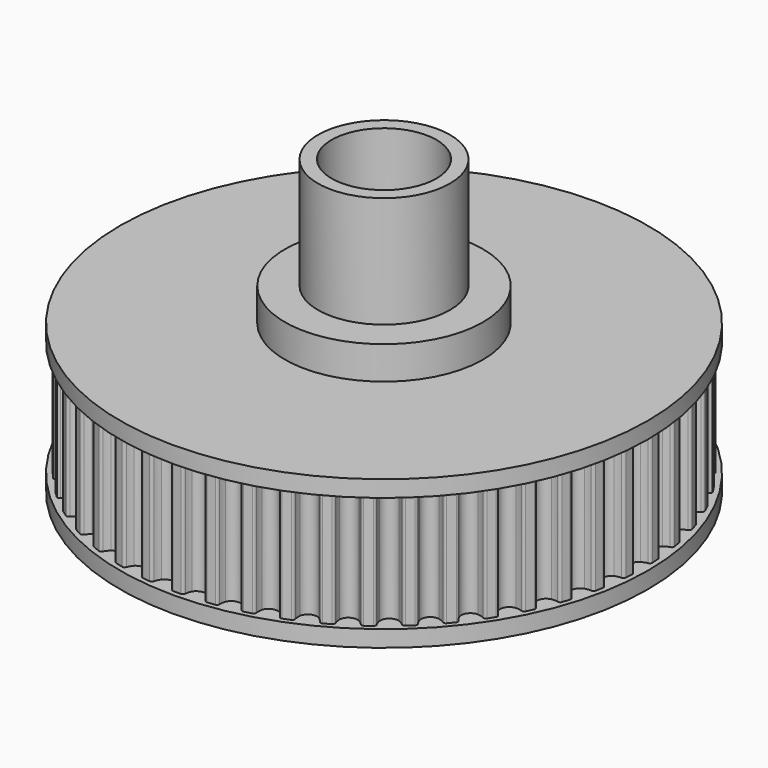
from build123d import *

# Parameters (mm, degrees)
PAD087_DEPTH     = 8
SKETCHBASE003_R  = 16
PADBASE003_DEPTH = 1
SKETCHTOP003_R   = 16
PADTOP003_DEPTH  = 1
SKETCH238_R      = 3.175
POCKET148_DEPTH  = 9.001
SKETCH239_R      = 6
PAD088_DEPTH     = 2
SKETCH237_R      = 4
PAD089_DEPTH     = 6.75
SKETCH240_R      = 7.5
PAD090_DEPTH     = 1.6
SKETCH241_R      = 3.175
POCKET149_DEPTH  = 19.351


with BuildPart() as part:
    # SketchGear003 → Pad087 (new body)
    with BuildSketch(Plane.XY):
        with BuildLine():
            ThreePointArc((15.661494, -0.75), (15.61756, -0.643934), (15.511494, -0.6))
            ThreePointArc((15.511494, -0.6), (15.332205, -0.544218), (15.161494, -0.466025))
            ThreePointArc((15.161494, -0.466025), (14.911494, 0), (15.161494, 0.466025))
            ThreePointArc((15.161494, 0.466025), (15.332205, 0.544218), (15.511494, 0.6))
            ThreePointArc((15.511494, 0.6), (15.61756, 0.643934), (15.661494, 0.75))
            Line((15.661494, 0.75), (15.631999, 1.21882))
            ThreePointArc((15.631999, 1.21882), (15.575118, 1.318543), (15.464381, 1.348837))
            ThreePointArc((15.464381, 1.348837), (15.279515, 1.381709), (15.10035, 1.437888))
            ThreePointArc((15.10035, 1.437888), (14.793913, 1.868906), (14.983533, 2.36259))
            ThreePointArc((14.983533, 2.36259), (15.143098, 2.461561), (15.313982, 2.539375))
            ThreePointArc((15.313982, 2.539375), (15.413705, 2.596256), (15.443999, 2.706992))
            Line((15.443999, 2.706992), (15.355977, 3.168418))
            ThreePointArc((15.355977, 3.168418), (15.287046, 3.260226), (15.173386, 3.276402))
            ThreePointArc((15.173386, 3.276402), (14.985857, 3.285844), (14.801064, 3.319126))
            ThreePointArc((14.801064, 3.319126), (14.443022, 3.708338), (14.569272, 4.221895))
            ThreePointArc((14.569272, 4.221895), (14.715174, 4.340084), (14.874958, 4.438702))
            ThreePointArc((14.874958, 4.438702), (14.966766, 4.507633), (14.982942, 4.621293))
            Line((14.982942, 4.621293), (14.837783, 5.068048))
            ThreePointArc((14.837783, 5.068048), (14.757888, 5.150493), (14.643097, 5.152296))
            ThreePointArc((14.643097, 5.152296), (14.455864, 5.138161), (14.268356, 5.148019))
            ThreePointArc((14.268356, 5.148019), (13.864357, 5.489287), (13.925246, 6.014618))
            ThreePointArc((13.925246, 6.014618), (14.055184, 6.150162), (14.201348, 6.268028))
            ThreePointArc((14.201348, 6.268028), (14.283792, 6.347922), (14.285596, 6.462713))
            Line((14.285596, 6.462713), (14.085587, 6.887752))
            ThreePointArc((14.085587, 6.887752), (13.99599, 6.959533), (13.881878, 6.946935))
            ThreePointArc((13.881878, 6.946935), (13.697893, 6.909445), (13.510628, 6.895724))
            ThreePointArc((13.510628, 6.895724), (13.067042, 7.183667), (13.061609, 7.712487))
            ThreePointArc((13.061609, 7.712487), (13.173535, 7.863248), (13.303774, 7.998503))
            ThreePointArc((13.303774, 7.998503), (13.375555, 8.088101), (13.362957, 8.202212))
            Line((13.362957, 8.202212), (13.111254, 8.598833))
            ThreePointArc((13.111254, 8.598833), (13.013367, 8.658818), (12.901734, 8.632017))
            ThreePointArc((12.901734, 8.632017), (12.723898, 8.571763), (12.539829, 8.53468))
            ThreePointArc((12.539829, 8.53468), (12.063652, 8.764756), (11.991984, 9.288725))
            ThreePointArc((11.991984, 9.288725), (12.084132, 9.452325), (12.196391, 9.602838))
            ThreePointArc((12.196391, 9.602838), (12.256377, 9.700725), (12.229576, 9.812358))
            Line((12.229576, 9.812358), (11.930148, 10.174304))
            ThreePointArc((11.930148, 10.174304), (11.825515, 10.221548), (11.718121, 10.180967))
            ThreePointArc((11.718121, 10.180967), (11.549239, 10.098899), (11.37127, 10.039039))
            ThreePointArc((11.37127, 10.039039), (10.870012, 10.20762), (10.733237, 10.718475))
            ThreePointArc((10.733237, 10.718475), (10.804154, 10.892334), (10.896664, 11.05573))
            ThreePointArc((10.896664, 11.05573), (10.943908, 11.160363), (10.903328, 11.267757))
            Line((10.903328, 11.267757), (10.560897, 11.589321))
            ThreePointArc((10.560897, 11.589321), (10.451167, 11.623078), (10.349707, 11.569357))
            ThreePointArc((10.349707, 11.569357), (10.192442, 11.46677), (10.023379, 11.385076))
            ThreePointArc((10.023379, 11.385076), (9.504944, 11.489504), (9.305221, 11.979188))
            ThreePointArc((9.305221, 11.979188), (9.353789, 12.160565), (9.425091, 12.334266))
            ThreePointArc((9.425091, 12.334266), (9.458848, 12.443996), (9.405127, 12.545457))
            Line((9.405127, 12.545457), (9.025094, 12.821567))
            ThreePointArc((9.025094, 12.821567), (8.911999, 12.841305), (8.818071, 12.775292))
            ThreePointArc((8.818071, 12.775292), (8.674904, 12.653803), (8.517413, 12.551564))
            ThreePointArc((8.517413, 12.551564), (7.989978, 12.590191), (7.730457, 13.050982))
            ThreePointArc((7.730457, 13.050982), (7.755908, 13.237015), (7.804878, 13.418284))
            ThreePointArc((7.804878, 13.418284), (7.824616, 13.531379), (7.758602, 13.625307))
            Line((7.758602, 13.625307), (7.34696, 13.851609))
            ThreePointArc((7.34696, 13.851609), (7.232283, 13.857017), (7.147369, 13.779752))
            ThreePointArc((7.147369, 13.779752), (7.020558, 13.641278), (6.877123, 13.520106))
            ThreePointArc((6.877123, 13.520106), (6.349005, 13.492323), (6.033778, 13.916954))
            ThreePointArc((6.033778, 13.916954), (6.035713, 14.104711), (6.061577, 14.290687))
            ThreePointArc((6.061577, 14.290687), (6.066985, 14.405365), (5.98972, 14.490278))
            Line((5.98972, 14.490278), (5.55296, 14.663203))
            ThreePointArc((5.55296, 14.663203), (5.438509, 14.654196), (5.363949, 14.566898))
            ThreePointArc((5.363949, 14.566898), (5.255494, 14.413621), (5.128376, 14.275428))
            ThreePointArc((5.128376, 14.275428), (4.607905, 14.181674), (4.241943, 14.563448))
            ThreePointArc((4.241943, 14.563448), (4.22033, 14.749966), (4.222681, 14.937718))
            ThreePointArc((4.222681, 14.937718), (4.213674, 15.052169), (4.126376, 15.126729))
            Line((4.126376, 15.126729), (3.671387, 15.24355))
            ThreePointArc((3.671387, 15.24355), (3.558967, 15.220269), (3.495937, 15.124314))
            ThreePointArc((3.495937, 15.124314), (3.407547, 14.958654), (3.298752, 14.805618))
            ThreePointArc((3.298752, 14.805618), (2.794135, 14.647371), (2.38321, 14.980267))
            ThreePointArc((2.38321, 14.980267), (2.338391, 15.162606), (2.317192, 15.349172))
            ThreePointArc((2.317192, 15.349172), (2.293911, 15.461592), (2.197956, 15.524622))
            Line((2.197956, 15.524622), (1.731913, 15.583497))
            ThreePointArc((1.731913, 15.583497), (1.623298, 15.54631), (1.572791, 15.443212))
            ThreePointArc((1.572791, 15.443212), (1.505861, 15.267779), (1.417104, 15.102315))
            ThreePointArc((1.417104, 15.102315), (0.9363, 14.88207), (0.486892, 15.160839))
            ThreePointArc((0.486892, 15.160839), (0.419573, 15.336122), (0.375159, 15.51856))
            ThreePointArc((0.375159, 15.51856), (0.337971, 15.627176), (0.234873, 15.677683))
            Line((0.234873, 15.677683), (-0.234873, 15.677683))
            ThreePointArc((-0.234873, 15.677683), (-0.337971, 15.627176), (-0.375159, 15.51856))
            ThreePointArc((-0.375159, 15.51856), (-0.419573, 15.336122), (-0.486892, 15.160839))
            ThreePointArc((-0.486892, 15.160839), (-0.9363, 14.88207), (-1.417104, 15.102315))
            ThreePointArc((-1.417104, 15.102315), (-1.505861, 15.267779), (-1.572791, 15.443212))
            ThreePointArc((-1.572791, 15.443212), (-1.623298, 15.54631), (-1.731913, 15.583497))
            Line((-1.731913, 15.583497), (-2.197956, 15.524622))
            ThreePointArc((-2.197956, 15.524622), (-2.293911, 15.461592), (-2.317192, 15.349172))
            ThreePointArc((-2.317192, 15.349172), (-2.338391, 15.162606), (-2.38321, 14.980267))
            ThreePointArc((-2.38321, 14.980267), (-2.794135, 14.647371), (-3.298752, 14.805618))
            ThreePointArc((-3.298752, 14.805618), (-3.407547, 14.958654), (-3.495937, 15.124314))
            ThreePointArc((-3.495937, 15.124314), (-3.558967, 15.220269), (-3.671387, 15.24355))
            Line((-3.671387, 15.24355), (-4.126376, 15.126729))
            ThreePointArc((-4.126376, 15.126729), (-4.213674, 15.052169), (-4.222681, 14.937718))
            ThreePointArc((-4.222681, 14.937718), (-4.22033, 14.749966), (-4.241943, 14.563448))
            ThreePointArc((-4.241943, 14.563448), (-4.607905, 14.181674), (-5.128376, 14.275428))
            ThreePointArc((-5.128376, 14.275428), (-5.255494, 14.413621), (-5.363949, 14.566898))
            ThreePointArc((-5.363949, 14.566898), (-5.438509, 14.654196), (-5.55296, 14.663203))
            Line((-5.55296, 14.663203), (-5.98972, 14.490278))
            ThreePointArc((-5.98972, 14.490278), (-6.066985, 14.405365), (-6.061577, 14.290687))
            ThreePointArc((-6.061577, 14.290687), (-6.035713, 14.104711), (-6.033778, 13.916954))
            ThreePointArc((-6.033778, 13.916954), (-6.349005, 13.492323), (-6.877123, 13.520106))
            ThreePointArc((-6.877123, 13.520106), (-7.020558, 13.641278), (-7.147369, 13.779752))
            ThreePointArc((-7.147369, 13.779752), (-7.232283, 13.857017), (-7.34696, 13.851609))
            Line((-7.34696, 13.851609), (-7.758602, 13.625307))
            ThreePointArc((-7.758602, 13.625307), (-7.824616, 13.531379), (-7.804878, 13.418284))
            ThreePointArc((-7.804878, 13.418284), (-7.755908, 13.237015), (-7.730457, 13.050982))
            ThreePointArc((-7.730457, 13.050982), (-7.989978, 12.590191), (-8.517413, 12.551564))
            ThreePointArc((-8.517413, 12.551564), (-8.674904, 12.653803), (-8.818071, 12.775292))
            ThreePointArc((-8.818071, 12.775292), (-8.911999, 12.841305), (-9.025094, 12.821567))
            Line((-9.025094, 12.821567), (-9.405127, 12.545457))
            ThreePointArc((-9.405127, 12.545457), (-9.458848, 12.443996), (-9.425091, 12.334266))
            ThreePointArc((-9.425091, 12.334266), (-9.353789, 12.160565), (-9.305221, 11.979188))
            ThreePointArc((-9.305221, 11.979188), (-9.504944, 11.489504), (-10.023379, 11.385076))
            ThreePointArc((-10.023379, 11.385076), (-10.192442, 11.46677), (-10.349707, 11.569357))
            ThreePointArc((-10.349707, 11.569357), (-10.451167, 11.623078), (-10.560897, 11.589321))
            Line((-10.560897, 11.589321), (-10.903328, 11.267757))
            ThreePointArc((-10.903328, 11.267757), (-10.943908, 11.160363), (-10.896664, 11.05573))
            ThreePointArc((-10.896664, 11.05573), (-10.804154, 10.892334), (-10.733237, 10.718475))
            ThreePointArc((-10.733237, 10.718475), (-10.870012, 10.20762), (-11.37127, 10.039039))
            ThreePointArc((-11.37127, 10.039039), (-11.549239, 10.098899), (-11.718121, 10.180967))
            ThreePointArc((-11.718121, 10.180967), (-11.825515, 10.221548), (-11.930148, 10.174304))
            Line((-11.930148, 10.174304), (-12.229576, 9.812358))
            ThreePointArc((-12.229576, 9.812358), (-12.256377, 9.700725), (-12.196391, 9.602838))
            ThreePointArc((-12.196391, 9.602838), (-12.084132, 9.452325), (-11.991984, 9.288725))
            ThreePointArc((-11.991984, 9.288725), (-12.063652, 8.764756), (-12.539829, 8.53468))
            ThreePointArc((-12.539829, 8.53468), (-12.723898, 8.571763), (-12.901734, 8.632017))
            ThreePointArc((-12.901734, 8.632017), (-13.013367, 8.658818), (-13.111254, 8.598833))
            Line((-13.111254, 8.598833), (-13.362957, 8.202212))
            ThreePointArc((-13.362957, 8.202212), (-13.375555, 8.088101), (-13.303774, 7.998503))
            ThreePointArc((-13.303774, 7.998503), (-13.173535, 7.863248), (-13.061609, 7.712487))
            ThreePointArc((-13.061609, 7.712487), (-13.067042, 7.183667), (-13.510628, 6.895724))
            ThreePointArc((-13.510628, 6.895724), (-13.697893, 6.909445), (-13.881878, 6.946935))
            ThreePointArc((-13.881878, 6.946935), (-13.99599, 6.959533), (-14.085587, 6.887752))
            Line((-14.085587, 6.887752), (-14.285596, 6.462713))
            ThreePointArc((-14.285596, 6.462713), (-14.283792, 6.347922), (-14.201348, 6.268028))
            ThreePointArc((-14.201348, 6.268028), (-14.055184, 6.150162), (-13.925246, 6.014618))
            ThreePointArc((-13.925246, 6.014618), (-13.864357, 5.489287), (-14.268356, 5.148019))
            ThreePointArc((-14.268356, 5.148019), (-14.455864, 5.138161), (-14.643097, 5.152296))
            ThreePointArc((-14.643097, 5.152296), (-14.757888, 5.150493), (-14.837783, 5.068048))
            Line((-14.837783, 5.068048), (-14.982942, 4.621293))
            ThreePointArc((-14.982942, 4.621293), (-14.966766, 4.507633), (-14.874958, 4.438702))
            ThreePointArc((-14.874958, 4.438702), (-14.715174, 4.340084), (-14.569272, 4.221895))
            ThreePointArc((-14.569272, 4.221895), (-14.443022, 3.708338), (-14.801064, 3.319126))
            ThreePointArc((-14.801064, 3.319126), (-14.985857, 3.285844), (-15.173386, 3.276402))
            ThreePointArc((-15.173386, 3.276402), (-15.287046, 3.260226), (-15.355977, 3.168418))
            Line((-15.355977, 3.168418), (-15.443999, 2.706992))
            ThreePointArc((-15.443999, 2.706992), (-15.413705, 2.596256), (-15.313982, 2.539375))
            ThreePointArc((-15.313982, 2.539375), (-15.143098, 2.461561), (-14.983533, 2.36259))
            ThreePointArc((-14.983533, 2.36259), (-14.793913, 1.868906), (-15.10035, 1.437888))
            ThreePointArc((-15.10035, 1.437888), (-15.279515, 1.381709), (-15.464381, 1.348837))
            ThreePointArc((-15.464381, 1.348837), (-15.575118, 1.318543), (-15.631999, 1.21882))
            Line((-15.631999, 1.21882), (-15.661494, 0.75))
            ThreePointArc((-15.661494, 0.75), (-15.61756, 0.643934), (-15.511494, 0.6))
            ThreePointArc((-15.511494, 0.6), (-15.332205, 0.544218), (-15.161494, 0.466025))
            ThreePointArc((-15.161494, 0.466025), (-14.911494, 0), (-15.161494, -0.466025))
            ThreePointArc((-15.161494, -0.466025), (-15.332205, -0.544218), (-15.511494, -0.6))
            ThreePointArc((-15.511494, -0.6), (-15.61756, -0.643934), (-15.661494, -0.75))
            Line((-15.661494, -0.75), (-15.631999, -1.21882))
            ThreePointArc((-15.631999, -1.21882), (-15.575118, -1.318543), (-15.464381, -1.348837))
            ThreePointArc((-15.464381, -1.348837), (-15.279515, -1.381709), (-15.10035, -1.437888))
            ThreePointArc((-15.10035, -1.437888), (-14.793913, -1.868906), (-14.983533, -2.36259))
            ThreePointArc((-14.983533, -2.36259), (-15.143098, -2.461561), (-15.313982, -2.539375))
            ThreePointArc((-15.313982, -2.539375), (-15.413705, -2.596256), (-15.443999, -2.706992))
            Line((-15.443999, -2.706992), (-15.355977, -3.168418))
            ThreePointArc((-15.355977, -3.168418), (-15.287046, -3.260226), (-15.173386, -3.276402))
            ThreePointArc((-15.173386, -3.276402), (-14.985857, -3.285844), (-14.801064, -3.319126))
            ThreePointArc((-14.801064, -3.319126), (-14.443022, -3.708338), (-14.569272, -4.221895))
            ThreePointArc((-14.569272, -4.221895), (-14.715174, -4.340084), (-14.874958, -4.438702))
            ThreePointArc((-14.874958, -4.438702), (-14.966766, -4.507633), (-14.982942, -4.621293))
            Line((-14.982942, -4.621293), (-14.837783, -5.068048))
            ThreePointArc((-14.837783, -5.068048), (-14.757888, -5.150493), (-14.643097, -5.152296))
            ThreePointArc((-14.643097, -5.152296), (-14.455864, -5.138161), (-14.268356, -5.148019))
            ThreePointArc((-14.268356, -5.148019), (-13.864357, -5.489287), (-13.925246, -6.014618))
            ThreePointArc((-13.925246, -6.014618), (-14.055184, -6.150162), (-14.201348, -6.268028))
            ThreePointArc((-14.201348, -6.268028), (-14.283792, -6.347922), (-14.285596, -6.462713))
            Line((-14.285596, -6.462713), (-14.085587, -6.887752))
            ThreePointArc((-14.085587, -6.887752), (-13.99599, -6.959533), (-13.881878, -6.946935))
            ThreePointArc((-13.881878, -6.946935), (-13.697893, -6.909445), (-13.510628, -6.895724))
            ThreePointArc((-13.510628, -6.895724), (-13.067042, -7.183667), (-13.061609, -7.712487))
            ThreePointArc((-13.061609, -7.712487), (-13.173535, -7.863248), (-13.303774, -7.998503))
            ThreePointArc((-13.303774, -7.998503), (-13.375555, -8.088101), (-13.362957, -8.202212))
            Line((-13.362957, -8.202212), (-13.111254, -8.598833))
            ThreePointArc((-13.111254, -8.598833), (-13.013367, -8.658818), (-12.901734, -8.632017))
            ThreePointArc((-12.901734, -8.632017), (-12.723898, -8.571763), (-12.539829, -8.53468))
            ThreePointArc((-12.539829, -8.53468), (-12.063652, -8.764756), (-11.991984, -9.288725))
            ThreePointArc((-11.991984, -9.288725), (-12.084132, -9.452325), (-12.196391, -9.602838))
            ThreePointArc((-12.196391, -9.602838), (-12.256377, -9.700725), (-12.229576, -9.812358))
            Line((-12.229576, -9.812358), (-11.930148, -10.174304))
            ThreePointArc((-11.930148, -10.174304), (-11.825515, -10.221548), (-11.718121, -10.180967))
            ThreePointArc((-11.718121, -10.180967), (-11.549239, -10.098899), (-11.37127, -10.039039))
            ThreePointArc((-11.37127, -10.039039), (-10.870012, -10.20762), (-10.733237, -10.718475))
            ThreePointArc((-10.733237, -10.718475), (-10.804154, -10.892334), (-10.896664, -11.05573))
            ThreePointArc((-10.896664, -11.05573), (-10.943908, -11.160363), (-10.903328, -11.267757))
            Line((-10.903328, -11.267757), (-10.560897, -11.589321))
            ThreePointArc((-10.560897, -11.589321), (-10.451167, -11.623078), (-10.349707, -11.569357))
            ThreePointArc((-10.349707, -11.569357), (-10.192442, -11.46677), (-10.023379, -11.385076))
            ThreePointArc((-10.023379, -11.385076), (-9.504944, -11.489504), (-9.305221, -11.979188))
            ThreePointArc((-9.305221, -11.979188), (-9.353789, -12.160565), (-9.425091, -12.334266))
            ThreePointArc((-9.425091, -12.334266), (-9.458848, -12.443996), (-9.405127, -12.545457))
            Line((-9.405127, -12.545457), (-9.025094, -12.821567))
            ThreePointArc((-9.025094, -12.821567), (-8.911999, -12.841305), (-8.818071, -12.775292))
            ThreePointArc((-8.818071, -12.775292), (-8.674904, -12.653803), (-8.517413, -12.551564))
            ThreePointArc((-8.517413, -12.551564), (-7.989978, -12.590191), (-7.730457, -13.050982))
            ThreePointArc((-7.730457, -13.050982), (-7.755908, -13.237015), (-7.804878, -13.418284))
            ThreePointArc((-7.804878, -13.418284), (-7.824616, -13.531379), (-7.758602, -13.625307))
            Line((-7.758602, -13.625307), (-7.34696, -13.851609))
            ThreePointArc((-7.34696, -13.851609), (-7.232283, -13.857017), (-7.147369, -13.779752))
            ThreePointArc((-7.147369, -13.779752), (-7.020558, -13.641278), (-6.877123, -13.520106))
            ThreePointArc((-6.877123, -13.520106), (-6.349005, -13.492323), (-6.033778, -13.916954))
            ThreePointArc((-6.033778, -13.916954), (-6.035713, -14.104711), (-6.061577, -14.290687))
            ThreePointArc((-6.061577, -14.290687), (-6.066985, -14.405365), (-5.98972, -14.490278))
            Line((-5.98972, -14.490278), (-5.55296, -14.663203))
            ThreePointArc((-5.55296, -14.663203), (-5.438509, -14.654196), (-5.363949, -14.566898))
            ThreePointArc((-5.363949, -14.566898), (-5.255494, -14.413621), (-5.128376, -14.275428))
            ThreePointArc((-5.128376, -14.275428), (-4.607905, -14.181674), (-4.241943, -14.563448))
            ThreePointArc((-4.241943, -14.563448), (-4.22033, -14.749966), (-4.222681, -14.937718))
            ThreePointArc((-4.222681, -14.937718), (-4.213674, -15.052169), (-4.126376, -15.126729))
            Line((-4.126376, -15.126729), (-3.671387, -15.24355))
            ThreePointArc((-3.671387, -15.24355), (-3.558967, -15.220269), (-3.495937, -15.124314))
            ThreePointArc((-3.495937, -15.124314), (-3.407547, -14.958654), (-3.298752, -14.805618))
            ThreePointArc((-3.298752, -14.805618), (-2.794135, -14.647371), (-2.38321, -14.980267))
            ThreePointArc((-2.38321, -14.980267), (-2.338391, -15.162606), (-2.317192, -15.349172))
            ThreePointArc((-2.317192, -15.349172), (-2.293911, -15.461592), (-2.197956, -15.524622))
            Line((-2.197956, -15.524622), (-1.731913, -15.583497))
            ThreePointArc((-1.731913, -15.583497), (-1.623298, -15.54631), (-1.572791, -15.443212))
            ThreePointArc((-1.572791, -15.443212), (-1.505861, -15.267779), (-1.417104, -15.102315))
            ThreePointArc((-1.417104, -15.102315), (-0.9363, -14.88207), (-0.486892, -15.160839))
            ThreePointArc((-0.486892, -15.160839), (-0.419573, -15.336122), (-0.375159, -15.51856))
            ThreePointArc((-0.375159, -15.51856), (-0.337971, -15.627176), (-0.234873, -15.677683))
            Line((-0.234873, -15.677683), (0.234873, -15.677683))
            ThreePointArc((0.234873, -15.677683), (0.337971, -15.627176), (0.375159, -15.51856))
            ThreePointArc((0.375159, -15.51856), (0.419573, -15.336122), (0.486892, -15.160839))
            ThreePointArc((0.486892, -15.160839), (0.9363, -14.88207), (1.417104, -15.102315))
            ThreePointArc((1.417104, -15.102315), (1.505861, -15.267779), (1.572791, -15.443212))
            ThreePointArc((1.572791, -15.443212), (1.623298, -15.54631), (1.731913, -15.583497))
            Line((1.731913, -15.583497), (2.197956, -15.524622))
            ThreePointArc((2.197956, -15.524622), (2.293911, -15.461592), (2.317192, -15.349172))
            ThreePointArc((2.317192, -15.349172), (2.338391, -15.162606), (2.38321, -14.980267))
            ThreePointArc((2.38321, -14.980267), (2.794135, -14.647371), (3.298752, -14.805618))
            ThreePointArc((3.298752, -14.805618), (3.407547, -14.958654), (3.495937, -15.124314))
            ThreePointArc((3.495937, -15.124314), (3.558967, -15.220269), (3.671387, -15.24355))
            Line((3.671387, -15.24355), (4.126376, -15.126729))
            ThreePointArc((4.126376, -15.126729), (4.213674, -15.052169), (4.222681, -14.937718))
            ThreePointArc((4.222681, -14.937718), (4.22033, -14.749966), (4.241943, -14.563448))
            ThreePointArc((4.241943, -14.563448), (4.607905, -14.181674), (5.128376, -14.275428))
            ThreePointArc((5.128376, -14.275428), (5.255494, -14.413621), (5.363949, -14.566898))
            ThreePointArc((5.363949, -14.566898), (5.438509, -14.654196), (5.55296, -14.663203))
            Line((5.55296, -14.663203), (5.98972, -14.490278))
            ThreePointArc((5.98972, -14.490278), (6.066985, -14.405365), (6.061577, -14.290687))
            ThreePointArc((6.061577, -14.290687), (6.035713, -14.104711), (6.033778, -13.916954))
            ThreePointArc((6.033778, -13.916954), (6.349005, -13.492323), (6.877123, -13.520106))
            ThreePointArc((6.877123, -13.520106), (7.020558, -13.641278), (7.147369, -13.779752))
            ThreePointArc((7.147369, -13.779752), (7.232283, -13.857017), (7.34696, -13.851609))
            Line((7.34696, -13.851609), (7.758602, -13.625307))
            ThreePointArc((7.758602, -13.625307), (7.824616, -13.531379), (7.804878, -13.418284))
            ThreePointArc((7.804878, -13.418284), (7.755908, -13.237015), (7.730457, -13.050982))
            ThreePointArc((7.730457, -13.050982), (7.989978, -12.590191), (8.517413, -12.551564))
            ThreePointArc((8.517413, -12.551564), (8.674904, -12.653803), (8.818071, -12.775292))
            ThreePointArc((8.818071, -12.775292), (8.911999, -12.841305), (9.025094, -12.821567))
            Line((9.025094, -12.821567), (9.405127, -12.545457))
            ThreePointArc((9.405127, -12.545457), (9.458848, -12.443996), (9.425091, -12.334266))
            ThreePointArc((9.425091, -12.334266), (9.353789, -12.160565), (9.305221, -11.979188))
            ThreePointArc((9.305221, -11.979188), (9.504944, -11.489504), (10.023379, -11.385076))
            ThreePointArc((10.023379, -11.385076), (10.192442, -11.46677), (10.349707, -11.569357))
            ThreePointArc((10.349707, -11.569357), (10.451167, -11.623078), (10.560897, -11.589321))
            Line((10.560897, -11.589321), (10.903328, -11.267757))
            ThreePointArc((10.903328, -11.267757), (10.943908, -11.160363), (10.896664, -11.05573))
            ThreePointArc((10.896664, -11.05573), (10.804154, -10.892334), (10.733237, -10.718475))
            ThreePointArc((10.733237, -10.718475), (10.870012, -10.20762), (11.37127, -10.039039))
            ThreePointArc((11.37127, -10.039039), (11.549239, -10.098899), (11.718121, -10.180967))
            ThreePointArc((11.718121, -10.180967), (11.825515, -10.221548), (11.930148, -10.174304))
            Line((11.930148, -10.174304), (12.229576, -9.812358))
            ThreePointArc((12.229576, -9.812358), (12.256377, -9.700725), (12.196391, -9.602838))
            ThreePointArc((12.196391, -9.602838), (12.084132, -9.452325), (11.991984, -9.288725))
            ThreePointArc((11.991984, -9.288725), (12.063652, -8.764756), (12.539829, -8.53468))
            ThreePointArc((12.539829, -8.53468), (12.723898, -8.571763), (12.901734, -8.632017))
            ThreePointArc((12.901734, -8.632017), (13.013367, -8.658818), (13.111254, -8.598833))
            Line((13.111254, -8.598833), (13.362957, -8.202212))
            ThreePointArc((13.362957, -8.202212), (13.375555, -8.088101), (13.303774, -7.998503))
            ThreePointArc((13.303774, -7.998503), (13.173535, -7.863248), (13.061609, -7.712487))
            ThreePointArc((13.061609, -7.712487), (13.067042, -7.183667), (13.510628, -6.895724))
            ThreePointArc((13.510628, -6.895724), (13.697893, -6.909445), (13.881878, -6.946935))
            ThreePointArc((13.881878, -6.946935), (13.99599, -6.959533), (14.085587, -6.887752))
            Line((14.085587, -6.887752), (14.285596, -6.462713))
            ThreePointArc((14.285596, -6.462713), (14.283792, -6.347922), (14.201348, -6.268028))
            ThreePointArc((14.201348, -6.268028), (14.055184, -6.150162), (13.925246, -6.014618))
            ThreePointArc((13.925246, -6.014618), (13.864357, -5.489287), (14.268356, -5.148019))
            ThreePointArc((14.268356, -5.148019), (14.455864, -5.138161), (14.643097, -5.152296))
            ThreePointArc((14.643097, -5.152296), (14.757888, -5.150493), (14.837783, -5.068048))
            Line((14.837783, -5.068048), (14.982942, -4.621293))
            ThreePointArc((14.982942, -4.621293), (14.966766, -4.507633), (14.874958, -4.438702))
            ThreePointArc((14.874958, -4.438702), (14.715174, -4.340084), (14.569272, -4.221895))
            ThreePointArc((14.569272, -4.221895), (14.443022, -3.708338), (14.801064, -3.319126))
            ThreePointArc((14.801064, -3.319126), (14.985857, -3.285844), (15.173386, -3.276402))
            ThreePointArc((15.173386, -3.276402), (15.287046, -3.260226), (15.355977, -3.168418))
            Line((15.355977, -3.168418), (15.443999, -2.706992))
            ThreePointArc((15.443999, -2.706992), (15.413705, -2.596256), (15.313982, -2.539375))
            ThreePointArc((15.313982, -2.539375), (15.143098, -2.461561), (14.983533, -2.36259))
            ThreePointArc((14.983533, -2.36259), (14.793913, -1.868906), (15.10035, -1.437888))
            ThreePointArc((15.10035, -1.437888), (15.279515, -1.381709), (15.464381, -1.348837))
            ThreePointArc((15.464381, -1.348837), (15.575118, -1.318543), (15.631999, -1.21882))
            Line((15.631999, -1.21882), (15.661494, -0.75))
        make_face()
    extrude(amount=PAD087_DEPTH)

    # SketchBase003 → PadBase003 (join)
    with BuildSketch(Plane.XY):
        Circle(SKETCHBASE003_R)
    extrude(amount=PADBASE003_DEPTH)

    # SketchTop003 → PadTop003 (join)
    with BuildSketch(Plane.XY.offset(8)):
        Circle(SKETCHTOP003_R)
    extrude(amount=PADTOP003_DEPTH)

    # Sketch238 (on Face307 of PadTop003) → Pocket148 (cut, through all)
    with BuildSketch(Plane.XY.offset(9)):
        Circle(SKETCH238_R)
    extrude(amount=-POCKET148_DEPTH, mode=Mode.SUBTRACT)

    # Sketch239 (on Face308 of Pocket148) → Pad088 (join)
    with BuildSketch(Plane.XY.offset(9)):
        Circle(SKETCH239_R)
    extrude(amount=PAD088_DEPTH)

    # Sketch237 (on Face311 of Pad088) → Pad089 (join)
    with BuildSketch(Plane.XY.offset(11)):
        Circle(SKETCH237_R)
    extrude(amount=PAD089_DEPTH)

    # Sketch240 (on Face305 of Pad089) → Pad090 (join)
    with BuildSketch(Plane(origin=(0, 0, 0), x_dir=(1, 0, 0), z_dir=(0, 0, -1))):
        Circle(SKETCH240_R)
    extrude(amount=PAD090_DEPTH)

    # Sketch241 (on Face313 of Pad090) → Pocket149 (cut, through all)
    with BuildSketch(Plane.XY.offset(17.75)):
        Circle(SKETCH241_R)
    extrude(amount=-POCKET149_DEPTH, mode=Mode.SUBTRACT)


with BuildPart() as part_1:
    # Gear003 placement: moved
    add(part.part.moved(Location((0, 0, -2))))


solid = part_1.part
